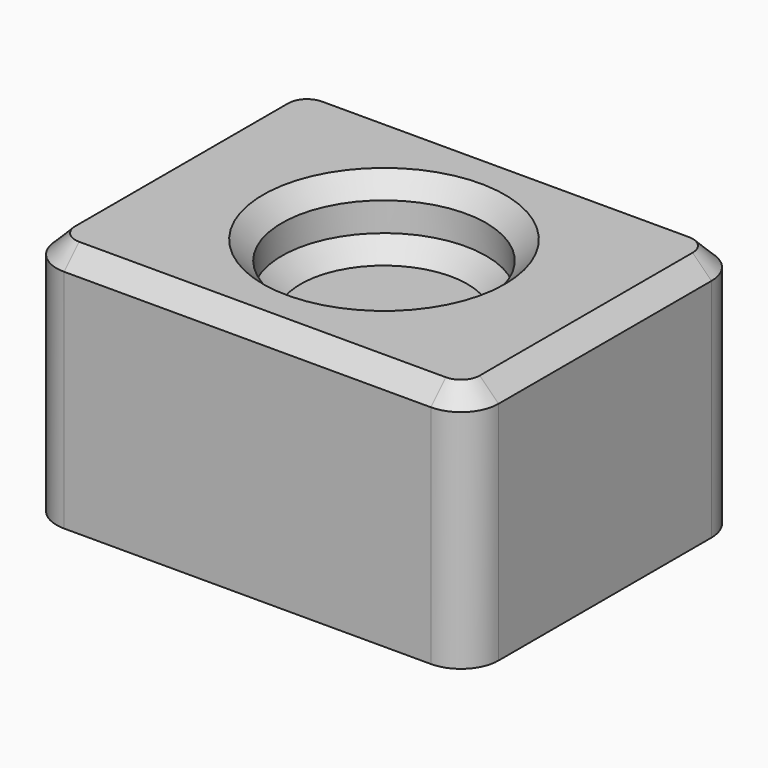
from build123d import *

# Parameters (mm, degrees)
F0_W     = 117.717252
F0_H     = 90.889574
F1_DEPTH = 65.204948
F2_R     = 10
F3_SIZE  = 5
F4_R     = 27.215053
F5_DEPTH = 17.689077
F6_SIZE  = 5


with BuildPart() as f1:
    # F0 (on Top) → F1 (new body)
    with BuildSketch(Plane.XY):
        Rectangle(F0_W, F0_H)
    extrude(amount=F1_DEPTH)

    # F2
    f2_edges = [f1.edges().sort_by_distance(p)[0] for p in [
        (-58.858626, 45.444787, 32.602474),
        (-58.858626, -45.444787, 32.602474),
        (58.858626, -45.444787, 32.602474),
        (58.858626, 45.444787, 32.602474),
    ]]
    fillet(f2_edges, radius=F2_R)

    # F3
    f3_edges = [f1.edges().sort_by_distance(p)[0] for p in [
        (-58.858626, 0, 65.204948),
        (-55.929693, 42.515854, 65.204948),
        (-55.929693, -42.515854, 65.204948),
        (0, 45.444787, 65.204948),
        (0, -45.444787, 65.204948),
        (55.929693, 42.515854, 65.204948),
        (55.929693, -42.515854, 65.204948),
        (58.858626, 0, 65.204948),
    ]]
    chamfer(f3_edges, length=F3_SIZE)

    # F4 (on face) → F5 (cut)
    with BuildSketch(Plane.XY.offset(65.204948)):
        Circle(F4_R)
    extrude(amount=-F5_DEPTH, mode=Mode.SUBTRACT)

    # F6
    f6_edges = [f1.edges().sort_by_distance(p)[0] for p in [
        (27.215053, 0, 56.36041),
        (-27.215053, 0, 65.204948),
        (-27.215053, 0, 47.515871),
    ]]
    chamfer(f6_edges, length=F6_SIZE)


solid = f1.part
